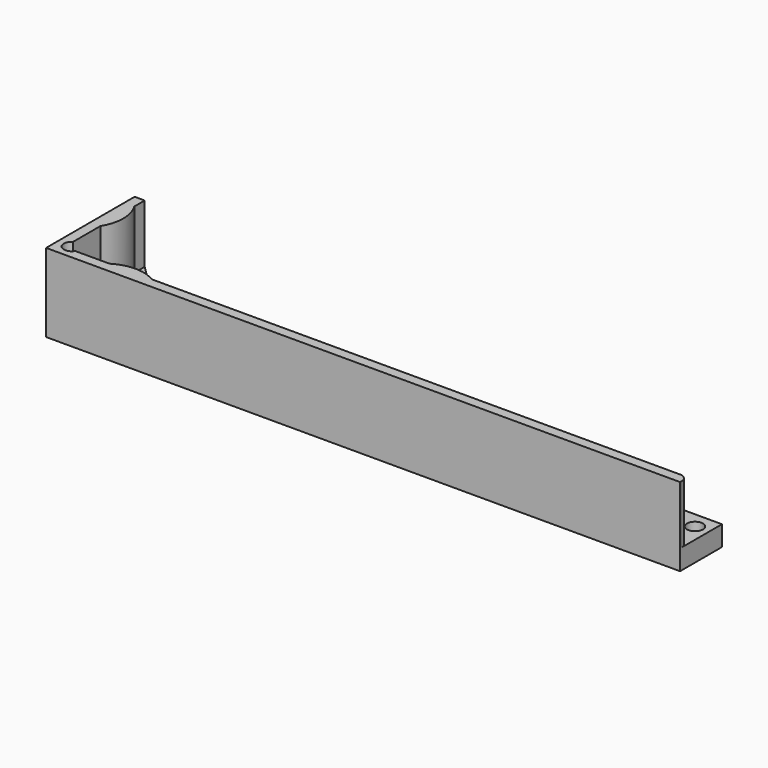
from build123d import *

# Parameters (mm, degrees)
F0_R      = 2
F1_DEPTH  = 5
F3_DEPTH  = 14.5
F4_R      = 2
F5_DEPTH  = 14.5
F7_DEPTH  = 25
F9_DEPTH  = 5
F11_DEPTH = 154
F12_R     = 2
F12_W     = 44.045060873
F12_H     = 72.3597388715
F13_DEPTH = 15
F15_DEPTH = 14.5
F16_R     = 2


with BuildPart() as f1:
    # F0 (on Top) → F1 (new body)
    with BuildSketch(Plane.XY):
        Polygon((-9, 9), (-9, -21), (21, 9), align=None)
        Circle(F0_R, mode=Mode.SUBTRACT)
    extrude(amount=F1_DEPTH)

    # F2 (on face) → F3 (join)
    with BuildSketch(Plane.XY.offset(5)):
        Polygon((-9, 9), (-9, -21), (-6.5, -18.5), (-6.5, 6.5), (18.5, 6.5), (21, 9), align=None)
    extrude(amount=F3_DEPTH)

    # F4 (on face) → F5 (cut, through all)
    with BuildSketch(Plane.XY.offset(19.5)):
        with Locations((-5.4393398282, 5.4393398282)):
            Circle(F4_R)
    extrude(amount=-F5_DEPTH, mode=Mode.SUBTRACT)

    # F6 (on face) → F7 (cut)
    with BuildSketch(Plane.XY.offset(19.5)):
        Polygon((18.5, 18.9713805318), (18.5, 6.5), (25.3656071275, -18.5), (25.3656071275, 18.9713805318), align=None)
        Polygon((-4.8339825459, -31.5633218139), (-6.5, -18.5), (-15.6000002623, -18.5), (-15.6000002623, -31.5633218139), align=None)
    extrude(amount=-F7_DEPTH, mode=Mode.SUBTRACT)

    # F8 (on face) → F9 (join, through all)
    with BuildSketch(Plane.XY.offset(5)):
        Polygon((18.5, -4), (18.5, 6.5), (8, -4), align=None)
    extrude(amount=-F9_DEPTH)

    # F10 (on face) → F11 (join)
    with BuildSketch(Plane.YZ.offset(18.5)):
        Polygon((-4, 5), (-4, 0), (9, 0), (9, 19.5), (6.5, 19.5), (6.5, 5), align=None)
    extrude(amount=F11_DEPTH)

    # F12 (on face) → F13 (cut, symmetric)
    with BuildSketch(Plane.XY.offset(5)):
        with Locations((145, 0)):
            Circle(F12_R)
        with Locations((170.5225304365, -14.2861837521)):
            Rectangle(F12_W, F12_H)
    extrude(amount=F13_DEPTH, both=True, mode=Mode.SUBTRACT)

    # F14 (on face) → F15 (join, through all)
    with BuildSketch(Plane.XY.offset(5)):
        with BuildLine():
            Line((15.2678268764, 6.5), (4.7321731236, 6.5))
            ThreePointArc((4.7321731236, 6.5), (10, 5), (15.2678268764, 6.5))
        make_face()
        with BuildLine():
            Line((-6.5, -4.7321731236), (-6.5, -15.2678268764))
            ThreePointArc((-6.5, -15.2678268764), (-5, -10), (-6.5, -4.7321731236))
        make_face()
    extrude(amount=F15_DEPTH)

    # F16
    f16_edges = [f1.edges().sort_by_distance(p)[0] for p in [
        (148.5, 6.5, 12.25),
    ]]
    fillet(f16_edges, radius=F16_R)


with BuildPart() as f17_1:
    # F17: instance of F1
    add(f1.part.mirror(Plane(origin=(69.75, 9, 9.75), x_dir=(-1, 0, 0), z_dir=(0, 1, 0))))


solid = f17_1.part
